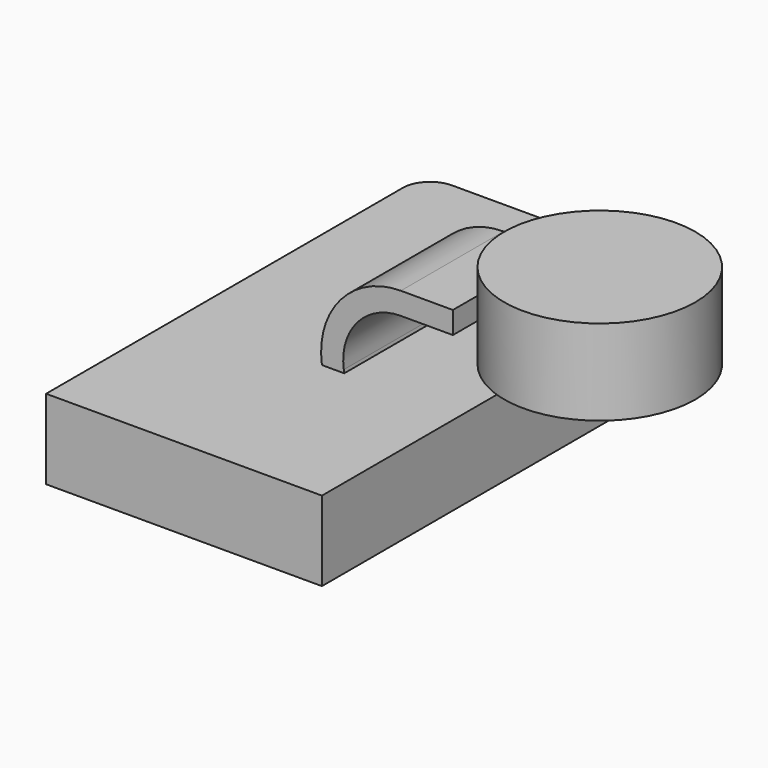
from build123d import *

# Parameters (mm, degrees)
F1_DEPTH = 119.0419690683
F2_DEPTH = 32.3018105701
F0_W     = 48.0754971504
F0_H     = 43.07214856
F4_R     = 13.8136399245


with BuildPart() as f1:
    # F0 (on Front) → F1 (new body, symmetric)
    with BuildSketch(Plane.XZ):
        Polygon((69.4049298763, -20.0544297695), (69.4049298763, 20.0544297695), (11.2389746131, 20.0544297695), (0, 20.0544297695), (-69.4049298763, 20.0544297695), (-69.4049298763, -20.0544297695), align=None)
    extrude(amount=F1_DEPTH, both=True)

    # F0 (on Front) → F2 (join, symmetric)
    with BuildSketch(Plane.XZ):
        with BuildLine():
            Line((0, 20.0544297695), (11.2389746131, 20.0544297695))
            Line((11.2389746131, 20.0544297695), (11.0121456355, 21.6348960729))
            ThreePointArc((11.0121456355, 21.6348960729), (17.806417225, 44.7578416287), (39.7296100855, 54.7681539319))
            Line((39.7296100855, 54.7681539319), (65.9070312977, 54.7681539319))
            Line((65.9070312977, 54.7681539319), (65.9070312977, 65.8931359649))
            Line((65.9070312977, 65.8931359649), (39.7296100855, 65.8931359649))
            ThreePointArc((39.7296100855, 65.8931359649), (9.3996376852, 52.0442181631), (0, 20.0544297695))
        make_face()
    extrude(amount=F2_DEPTH, both=True)

    # F0 (on Front) → F3 (revolve)
    with BuildSketch(Plane.XZ):
        with Locations((138.0202770233, 65.8931359649)):
            Rectangle(F0_W, F0_H)
    revolve(axis=Axis((113.9825284481, 0, 65.8931359649), (0, 0, -1)))

    # F4
    f4_edges = [f1.edges().sort_by_distance(p)[0] for p in [
        (-69.40493, 119.041969, 0),
        (69.40493, 119.041969, 0),
    ]]
    fillet(f4_edges, radius=F4_R)


solid = f1.part
